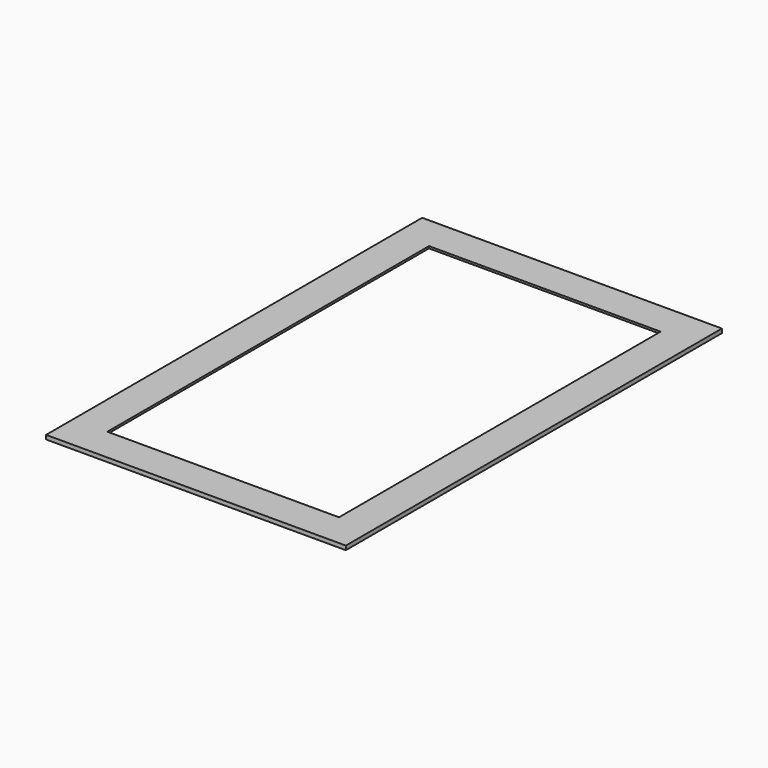
from build123d import *

# Parameters (mm, degrees)
F0_W     = 440
F0_H     = 690
F0_W_2   = 340
F0_H_2   = 590
F1_DEPTH = 6
F2_W     = 100
F2_H     = 40
F2_W_2   = 340
F2_H_2   = 590
F3_DEPTH = 3


with BuildPart() as f1:
    # F0 (on Top) → F1 (new body)
    with BuildSketch(Plane.XY):
        with Locations((175, 300)):
            Rectangle(F0_W, F0_H)
        with Locations((175, 300)):
            Rectangle(F0_W_2, F0_H_2, mode=Mode.SUBTRACT)
    extrude(amount=F1_DEPTH)

    # F2 (on face) → F3 (cut)
    with BuildSketch(Plane(origin=(0, 0, 0), x_dir=(1, 0, 0), z_dir=(0, 0, -1))):
        with Locations((175, 20)):
            Rectangle(F2_W, F2_H)
        Polygon((0, -600), (350, -600), (350, 0), (225, 0), (125, 0), (0, 0), align=None)
        with Locations((175, -300)):
            Rectangle(F2_W_2, F2_H_2, mode=Mode.SUBTRACT)
    extrude(amount=-F3_DEPTH, mode=Mode.SUBTRACT)


solid = f1.part
